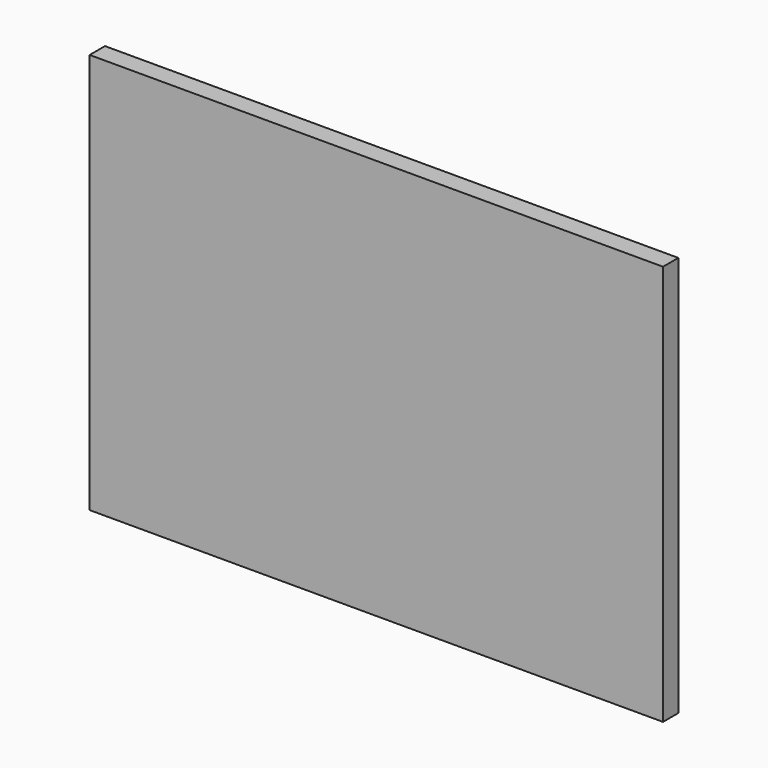
from build123d import *

# Parameters (mm, degrees)
F0_W     = 123.973846
F0_H     = 45.784473
F0_H_2   = 68.939351
F1_DEPTH = 30.48
F2_W     = 910.910159
F2_H     = 636.648238
F3_DEPTH = 30.48


with BuildPart() as f1:
    # F0 (on Front) → F1 (new body)
    with BuildSketch(Plane.XZ):
        with Locations((3.646299, 31.743377)):
            Rectangle(F0_W, F0_H)
        with Locations((3.646299, -25.618534)):
            Rectangle(F0_W, F0_H_2)
    extrude(amount=F1_DEPTH)

    # F2 (on Front) → F3 (join)
    with BuildSketch(Plane.XZ):
        with Locations((225.159451, -26.197493)):
            Rectangle(F2_W, F2_H)
    extrude(amount=F3_DEPTH)


solid = f1.part
